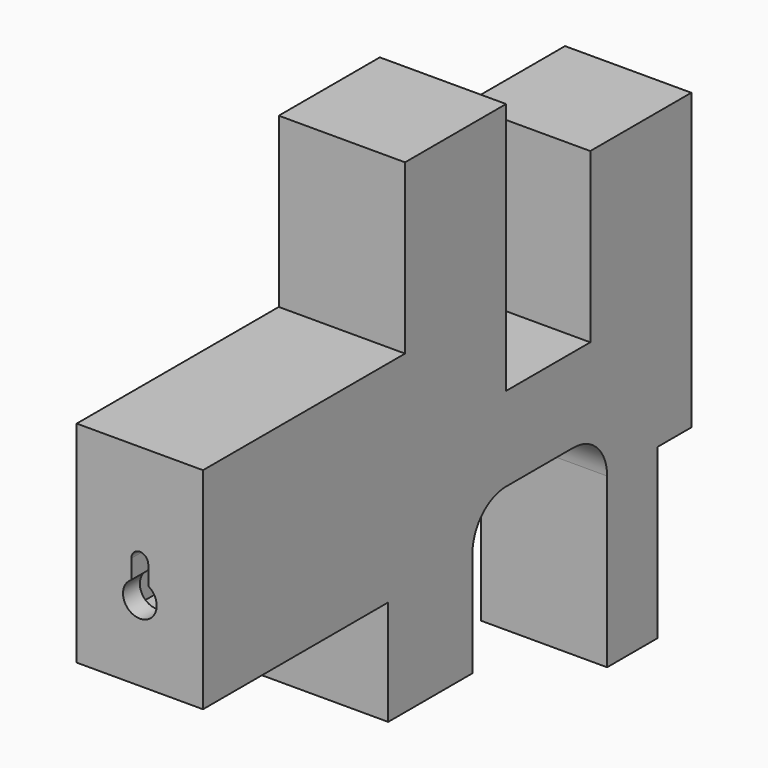
from build123d import *

# Parameters (mm, degrees)
F0_R     = 13
F1_DEPTH = 30
F2_W     = 55
F2_H     = 50
F3_DEPTH = 5
F5_DEPTH = 15
F6_W     = 12.6459868625
F6_H     = 18.7160577625
F7_DEPTH = 10


with BuildPart() as f1:
    # F0 (on Right) → F1 (new body)
    with BuildSketch(Plane.YZ):
        with BuildLine():
            Line((0, 50), (0, 0))
            Line((0, 0), (55, 0))
            Line((55, 0), (55, -25))
            Line((55, -25), (80, -25))
            Line((80, -25), (80, 0))
            ThreePointArc((80, 0), (82.9289321881, 7.0710678119), (90, 10))
            Line((90, 10), (110, 10))
            ThreePointArc((110, 10), (117.0710678119, 7.0710678119), (120, 0))
            Line((120, 0), (120, -40))
            Line((120, -40), (135, -40))
            Line((135, -40), (135, 0))
            Line((135, 0), (145, 0))
            Line((145, 0), (145, 70))
            Line((145, 70), (115, 70))
            Line((115, 70), (115, 30))
            Line((115, 30), (90, 30))
            Line((90, 30), (90, 90))
            Line((90, 90), (60, 90))
            Line((60, 90), (60, 50))
            Line((60, 50), (0, 50))
        make_face()
        with Locations((30, 25)):
            Circle(F0_R, mode=Mode.SUBTRACT)
    extrude(amount=F1_DEPTH)

    # F2 (on face) → F3 (join)
    with BuildSketch(Plane.YZ.offset(30)):
        with Locations((27.5, 25)):
            Rectangle(F2_W, F2_H)
    extrude(amount=-F3_DEPTH)

    # F4 (on face) → F5 (cut)
    with BuildSketch(Plane.XZ):
        with BuildLine():
            Line((13, 26.0717967697), (13, 21.5358983849))
            ThreePointArc((13, 21.5358983849), (15, 14.0717967697), (17, 21.5358983849))
            Line((17, 21.5358983849), (17, 26.0717967697))
            ThreePointArc((17, 26.0717967697), (16.4142135624, 27.4860103321), (15, 28.0717967697))
            ThreePointArc((15, 28.0717967697), (13.5857864376, 27.4860103321), (13, 26.0717967697))
        make_face()
    extrude(amount=-F5_DEPTH, mode=Mode.SUBTRACT)

    # F6 (on face) → F7 (cut)
    with BuildSketch(Plane.XZ.offset(-15)):
        with Locations((15.175185632, 21.5370440856)):
            Rectangle(F6_W, F6_H)
    extrude(amount=F7_DEPTH, mode=Mode.SUBTRACT)


solid = f1.part
